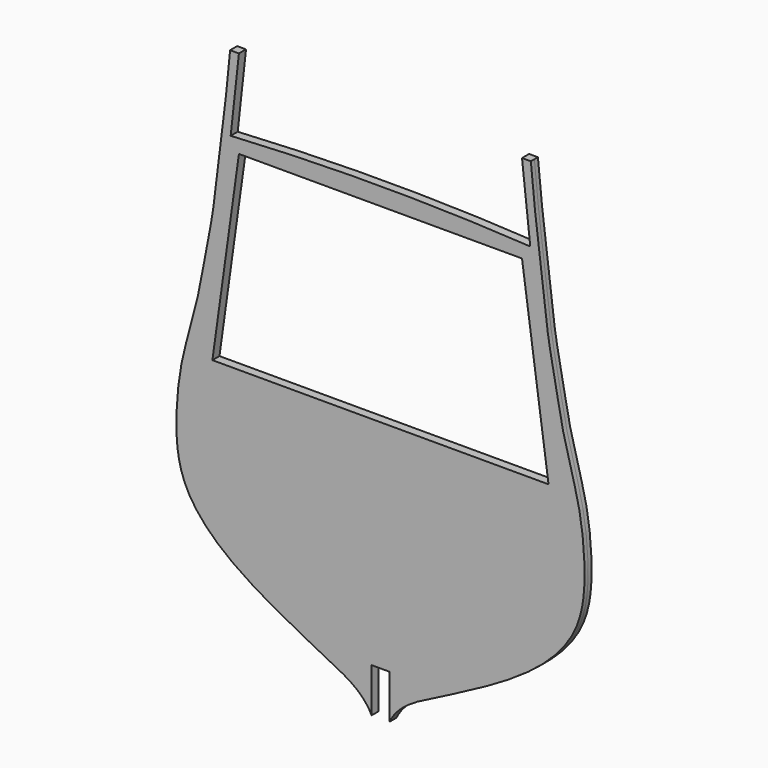
from build123d import *

# Parameters (mm, degrees)
F1_DEPTH = 1.5875


with BuildPart() as f1:
    # F0 (on Front) → F1 (new body, symmetric)
    with BuildSketch(Plane.XZ):
        with BuildLine():
            add(Edge.make_bspline(
                [(-3.175, -96.8375), (-6.35, -90.4875), (-19.3035960047, -84.0457052753), (-42.9963767104, -72.028266973), (-60.5847704262, -59.7860464389), (-70.769309228, -46.6778017088), (-73.509178981, -33.4002292728), (-73.2124178103, -20.6180932858), (-71.7794627894, -7.8538952312), (-68.2273797164, 4.7592871668), (-64.8799525796, 17.4116234571), (-62.8189137976, 30.1759385822), (-60.0907022584, 42.8118176818), (-58.7906427253, 55.6104818232), (-57.1737921245, 68.1009229726), (-55.345867651, 82.0834416519), (-54.7688376161, 88.899123839), (-53.975, 96.8375)],
                knots=[0, 0, 0, 0, 0.077409884, 0.1665986009, 0.2463757269, 0.3147803501, 0.3768976662, 0.4380806212, 0.4995011843, 0.5616185005, 0.6237358166, 0.685449565, 0.7471633134, 0.8085838765, 0.8700044397, 0.9314250028, 1, 1, 1, 1], degree=3))
            Line((-3.175, -96.8375), (-3.175, -80.9625))
            Line((-3.175, -80.9625), (0, -80.9625))
            Line((0, -80.9625), (3.175, -80.9625))
            Line((3.175, -80.9625), (3.175, -96.8375))
            add(Edge.make_bspline(
                [(3.175, -96.8375), (6.35, -90.4875), (19.3035960047, -84.0457052753), (42.9963767104, -72.028266973), (60.5847704262, -59.7860464389), (70.769309228, -46.6778017088), (73.509178981, -33.4002292728), (73.2124178103, -20.6180932858), (71.7794627894, -7.8538952312), (68.2273797164, 4.7592871668), (64.8799525796, 17.4116234571), (62.8189137976, 30.1759385822), (60.0907022584, 42.8118176818), (58.7906427253, 55.6104818232), (57.1737921245, 68.1009229726), (55.345867651, 82.0834416519), (54.7688376161, 88.899123839), (53.975, 96.8375)],
                knots=[0, 0, 0, 0, 0.077409884, 0.1665986009, 0.2463757269, 0.3147803501, 0.3768976662, 0.4380806212, 0.4995011843, 0.5616185005, 0.6237358166, 0.685449565, 0.7471633134, 0.8085838765, 0.8700044397, 0.9314250028, 1, 1, 1, 1], degree=3))
            Line((53.975, 96.8375), (50.8, 96.8375))
            Line((50.8, 96.8375), (53.7684534246, 69.850021681))
            ThreePointArc((53.7684534246, 69.850021681), (0, 71.4375), (-53.7684534246, 69.850021681))
            Line((-53.7684534246, 69.850021681), (-50.8, 96.8375))
            Line((-50.8, 96.8375), (-53.975, 96.8375))
        make_face()
        Polygon((60.325, -3.175), (0, -3.175), (-60.325, -3.175), (-50.8, 65.0875), (0, 65.0875), (50.8, 65.0875), align=None, mode=Mode.SUBTRACT)
    extrude(amount=F1_DEPTH, both=True)


solid = f1.part
